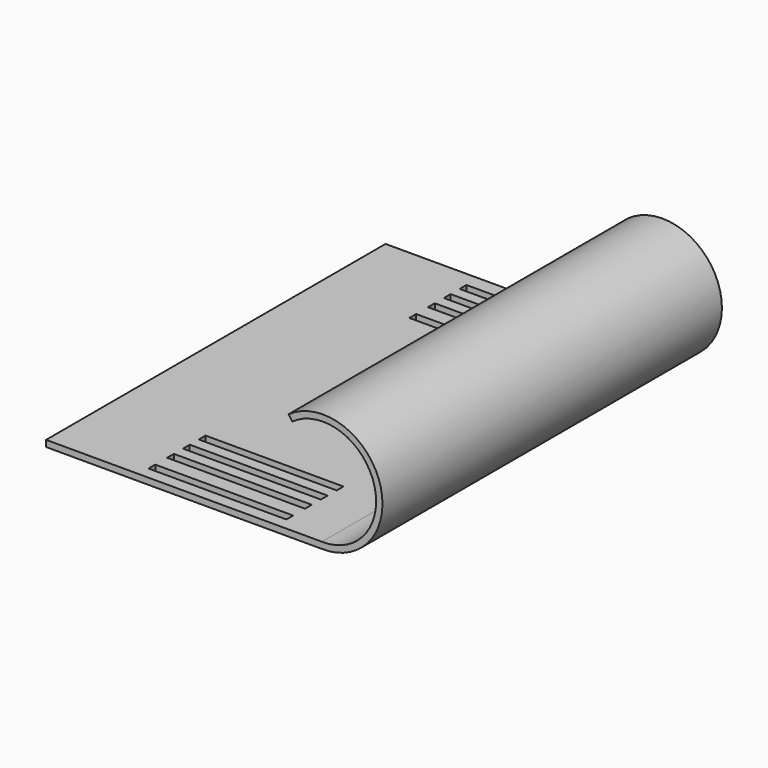
from build123d import *

# Parameters (mm, degrees)
F1_DEPTH = 200
F2_W     = 55
F2_H     = 109.445568
F3_DEPTH = 10
F4_W     = 86.159274
F4_H     = 5.166331
F5_DEPTH = 56
F6_W     = 65
F6_H     = 4
F7_DEPTH = 16


with BuildPart() as f1:
    # F0 (on Front) → F1 (new body)
    with BuildSketch(Plane.XZ):
        with BuildLine():
            ThreePointArc((40.483897, 45.325597), (78.91976, 32.363638), (54.467298, 0))
            Line((54.467298, 0), (-75.532702, 0))
            Line((-75.532702, 0), (-75.520234, -3))
            Line((-75.520234, -3), (54.434443, -3))
            ThreePointArc((54.434443, -3), (81.781307, 33.264648), (38.73827, 47.765431))
            Line((38.73827, 47.765431), (40.483897, 45.325597))
        make_face()
    extrude(amount=F1_DEPTH)

    # F2 (on face) → F3 (join)
    with BuildSketch(Plane(origin=(0, 0, -3), x_dir=(1, 0, 0), z_dir=(0, 0, -1))):
        with Locations((-12.828581, 100.090729)):
            Rectangle(F2_W, F2_H)
    extrude(amount=F3_DEPTH)

    # F4 (on face) → F5 (cut)
    with BuildSketch(Plane.YZ.offset(14.671419)):
        with Locations((-99.092744, -5.583165)):
            Rectangle(F4_W, F4_H)
    extrude(amount=-F5_DEPTH, mode=Mode.SUBTRACT)

    # F6 (on face) → F7 (cut)
    with BuildSketch(Plane(origin=(0, 0, -3), x_dir=(1, 0, 0), z_dir=(0, 0, -1))):
        with Locations((0.678306, 181.335698)):
            Rectangle(F6_W, F6_H)
        with Locations((0.678306, 171.99495)):
            Rectangle(F6_W, F6_H)
        with Locations((0.678306, 162.678402)):
            Rectangle(F6_W, F6_H)
        with Locations((0.678306, 38.604857)):
            Rectangle(F6_W, F6_H)
        with Locations((0.678306, 27.627041)):
            Rectangle(F6_W, F6_H)
        with Locations((0.678306, 18.286293)):
            Rectangle(F6_W, F6_H)
        with Locations((0.678306, 8.969744)):
            Rectangle(F6_W, F6_H)
        with Locations((0.678306, 192.313515)):
            Rectangle(F6_W, F6_H)
    extrude(amount=-F7_DEPTH, mode=Mode.SUBTRACT)


solid = f1.part
